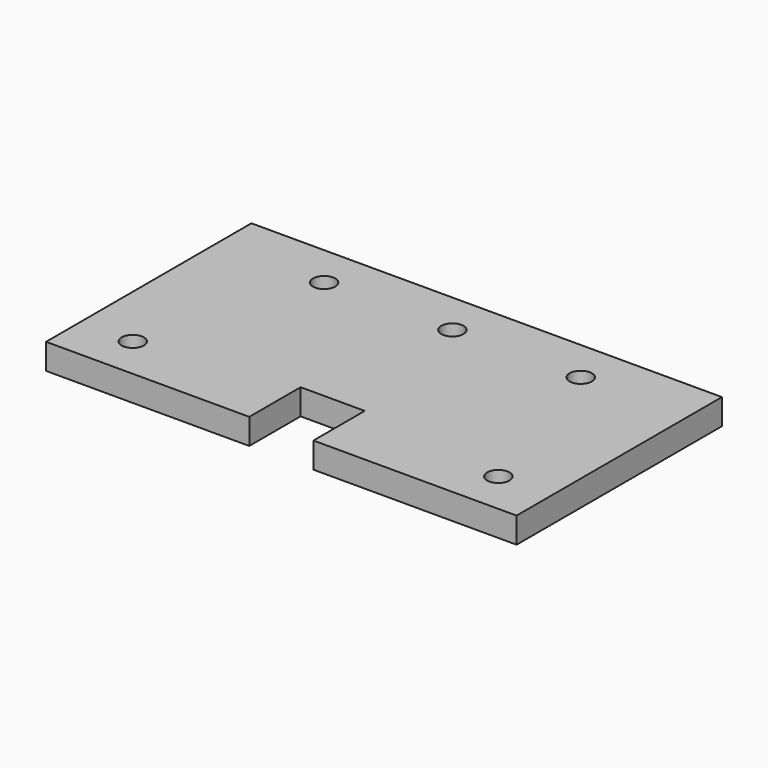
from build123d import *

# Parameters (mm, degrees)
F0_R     = 2.6
F1_DEPTH = 6


with BuildPart() as f1:
    # F0 (on Top) → F1 (new body)
    with BuildSketch(Plane.XY):
        Polygon((-47.5, 0), (0, 0), (0, 60), (-110, 60), (-110, 0), (-62.5, 0), (-62.5, 15), (-47.5, 15), align=None)
        with Locations((-97.735, 10)):
            Circle(F0_R, mode=Mode.SUBTRACT)
        with Locations((-12.265, 10)):
            Circle(F0_R, mode=Mode.SUBTRACT)
        with Locations((-85, 50)):
            Circle(F0_R, mode=Mode.SUBTRACT)
        with Locations((-55, 50)):
            Circle(F0_R, mode=Mode.SUBTRACT)
        with Locations((-25, 50)):
            Circle(F0_R, mode=Mode.SUBTRACT)
    extrude(amount=F1_DEPTH)


solid = f1.part
